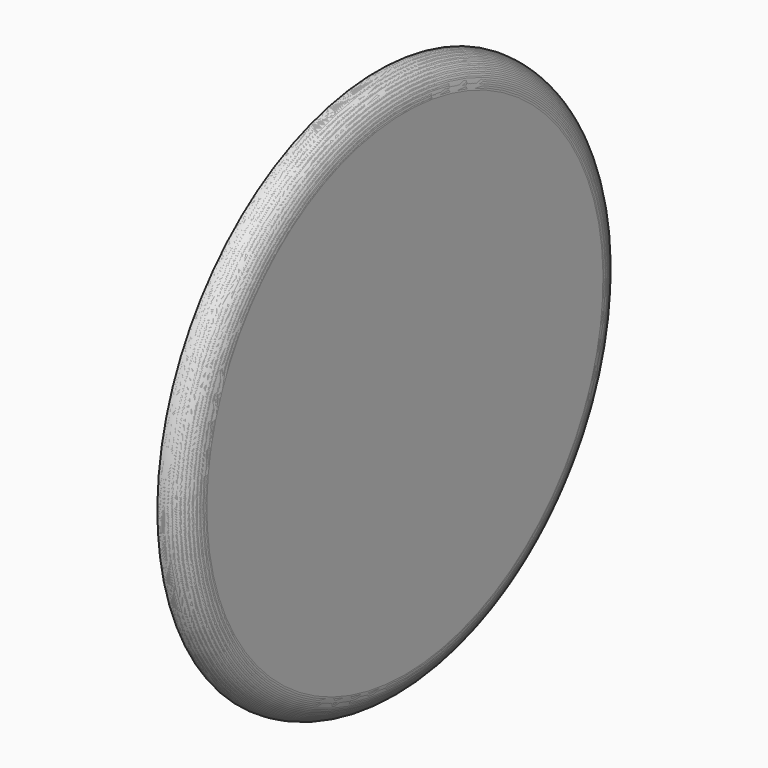
from build123d import *


with BuildPart() as inner:
    # Sketch001 → Revolution001 (revolve)
    with BuildSketch(Plane(origin=(0, 0, 0), x_dir=(-1, 0, 0), z_dir=(0, -1, 0))):
        with BuildLine():
            Line((0, 0), (0, 45))
            Line((0, 45), (0, 47))
            ThreePointArc((0, 47), (-1.414214, 46.414214), (-2, 45))
            Line((-2, 0), (-2, 45))
            Line((0, 0), (-2, 0))
        make_face()
    revolve(axis=Axis((0, 0, 0), (-1, 0, 0)))


with BuildPart() as model:
    # Sketch → Revolution (revolve)
    with BuildSketch(Plane(origin=(0, 0, 0), x_dir=(-1, 0, 0), z_dir=(0, -1, 0))):
        with BuildLine():
            Line((0, 0), (0, 45))
            Line((0, 45), (0, 50))
            ThreePointArc((0, 50), (-3.535527, 48.535541), (-5, 45.000019))
            Line((-5, 0), (-5, 45.000019))
            Line((0, 0), (-5, 0))
        make_face()
    revolve(axis=Axis((0, 0, 0), (-1, 0, 0)))

    # Cut: cut Inner
    add(inner.part, mode=Mode.SUBTRACT)


with BuildPart() as displacedmodel:
    # Sketch002 → Revolution002 (revolve)
    with BuildSketch(Plane(origin=(0, 0, 0), x_dir=(-1, 0, 0), z_dir=(0, -1, 0))):
        with BuildLine():
            Line((0, 0), (0, 45))
            Line((0, 45), (0, 50))
            ThreePointArc((0, 50), (-3.535542, 48.535526), (-5, 44.999978))
            Line((-5, 0), (-5, 44.999978))
            Line((0, 0), (-5, 0))
        make_face()
    revolve(axis=Axis((0, 0, 0), (-1, 0, 0)))


solid = Compound([model.part, displacedmodel.part])
